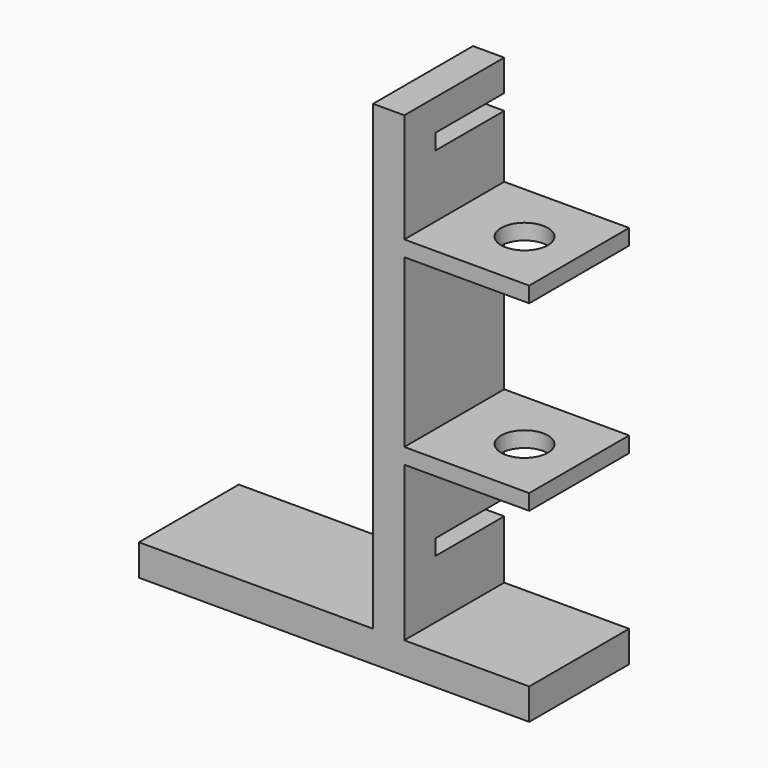
from build123d import *

# Parameters (mm, degrees)
PAD_DEPTH       = 8
SKETCH001_R     = 1.5
POCKET_DEPTH    = 14
SKETCH002_W     = 1
SKETCH002_H     = 10
POCKET001_DEPTH = 5


with BuildPart() as part:
    # Sketch → Pad (new body)
    with BuildSketch(Plane.XZ):
        Polygon((-15, -2), (10, -2), (10, 0), (2, 0), (2, 9.9), (10, 9.9), (10, 10.9), (2, 10.9), (2, 21.6), (10, 21.6), (10, 22.6), (2, 22.6), (2, 29.6), (0, 29.6), (0, 0), (-15, 0), align=None)
    extrude(amount=PAD_DEPTH)

    # Sketch001 → Pocket (cut)
    with BuildSketch(Plane(origin=(0, 0, 22.6), x_dir=(-1, 0, 0), z_dir=(0, 0, 1))):
        with Locations((-6.5, 4)):
            Circle(SKETCH001_R)
    extrude(amount=-POCKET_DEPTH, mode=Mode.SUBTRACT)

    # Sketch002 → Pocket001 (cut)
    with BuildSketch(Plane(origin=(2, 0, 0), x_dir=(0, 0, 1), z_dir=(1, 0, 0))):
        with Locations((27.1, 0.5)):
            Rectangle(SKETCH002_W, SKETCH002_H)
        with Locations((4.24, 0.5)):
            Rectangle(SKETCH002_W, SKETCH002_H)
    extrude(amount=-POCKET001_DEPTH, mode=Mode.SUBTRACT)


solid = part.part
